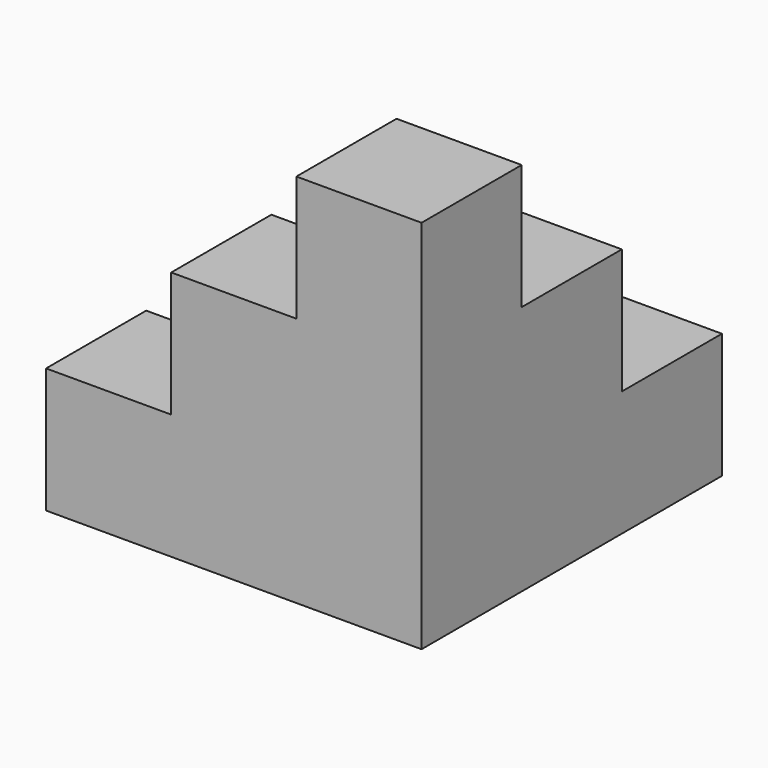
from build123d import *

# Parameters (mm, degrees)
BOX003_W     = 10
BOX003_H     = 10
BOX003_DEPTH = 20
BOX005_W     = 10
BOX005_H     = 10
BOX005_DEPTH = 30
BOX007_W     = 10
BOX007_H     = 10
BOX007_DEPTH = 20
BOX008_W     = 10
BOX008_H     = 10
BOX008_DEPTH = 10
BOX009_W     = 10
BOX009_H     = 10
BOX009_DEPTH = 10
BOX_W        = 10
BOX_H        = 10
BOX_DEPTH    = 10


with BuildPart() as cub003:
    # Box003 → Box003 (new body)
    with BuildSketch(Plane(origin=(10, 10, 0), x_dir=(1, 0, 0), z_dir=(0, 0, 1))):
        with Locations((5, 5)):
            Rectangle(BOX003_W, BOX003_H)
    extrude(amount=BOX003_DEPTH)


with BuildPart() as cub005:
    # Box005 → Box005 (new body)
    with BuildSketch(Plane(origin=(10, 0, 0), x_dir=(1, 0, 0), z_dir=(0, 0, 1))):
        with Locations((5, 5)):
            Rectangle(BOX005_W, BOX005_H)
    extrude(amount=BOX005_DEPTH)


with BuildPart() as cub007:
    # Box007 → Box007 (new body)
    with BuildSketch(Plane.XY):
        with Locations((5, 5)):
            Rectangle(BOX007_W, BOX007_H)
    extrude(amount=BOX007_DEPTH)


with BuildPart() as cub008:
    # Box008 → Box008 (new body)
    with BuildSketch(Plane(origin=(0, 10, 0), x_dir=(1, 0, 0), z_dir=(0, 0, 1))):
        with Locations((5, 5)):
            Rectangle(BOX008_W, BOX008_H)
    extrude(amount=BOX008_DEPTH)


with BuildPart() as cub009:
    # Box009 → Box009 (new body)
    with BuildSketch(Plane(origin=(10, 20, 0), x_dir=(1, 0, 0), z_dir=(0, 0, 1))):
        with Locations((5, 5)):
            Rectangle(BOX009_W, BOX009_H)
    extrude(amount=BOX009_DEPTH)


with BuildPart() as fusion:
    # Box → Box (new body)
    with BuildSketch(Plane(origin=(-10, 0, 0), x_dir=(1, 0, 0), z_dir=(0, 0, 1))):
        with Locations((5, 5)):
            Rectangle(BOX_W, BOX_H)
    extrude(amount=BOX_DEPTH)

    # Fusion: union Cub003, Cub005, Cub007, Cub008, Cub009
    add(cub003.part)
    add(cub005.part)
    add(cub007.part)
    add(cub008.part)
    add(cub009.part)


solid = fusion.part
